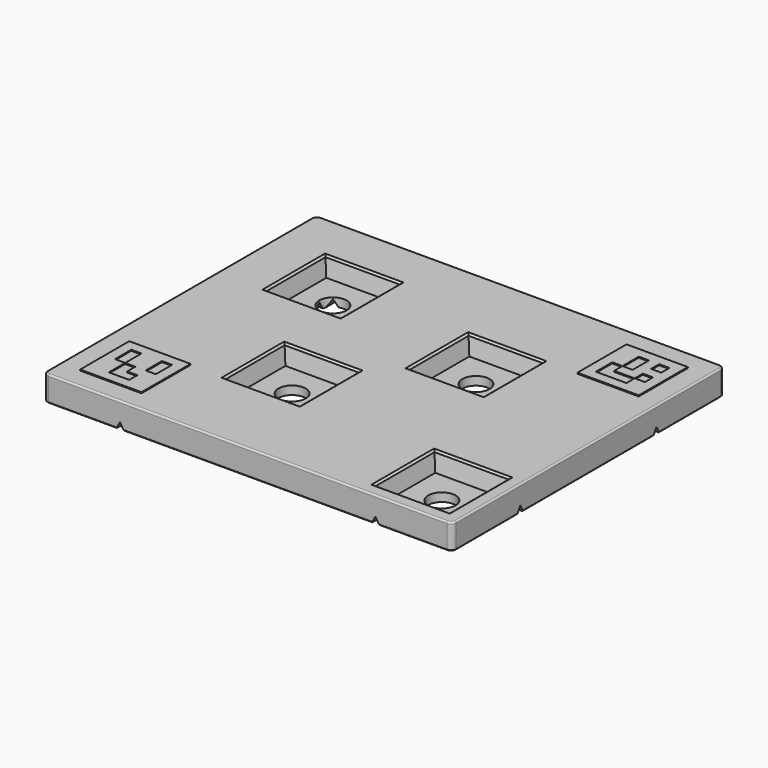
from build123d import *

# Parameters (mm, degrees)
PAD002_DEPTH    = 15
POCKET003_DEPTH = 240.001
POCKET004_DEPTH = 200.001
SKETCH018_W     = 36
SKETCH018_H     = 36
SKETCH018_W_2   = 6
SKETCH018_H_2   = 12
SKETCH018_H_3   = 6
PAD003_DEPTH    = 0.6
SKETCH019_R     = 8
POCKET005_DEPTH = 15.001
SKETCH027_W     = 39
SKETCH027_H     = 39
SKETCH026_W     = 44
SKETCH026_H     = 44
SKETCH020_W     = 44
SKETCH020_H     = 44
SKETCH021_W     = 39
SKETCH021_H     = 39
SKETCH022_W     = 44
SKETCH022_H     = 44
SKETCH023_W     = 39
SKETCH023_H     = 39
SKETCH024_W     = 44
SKETCH024_H     = 44
SKETCH025_W     = 39
SKETCH025_H     = 39
CHAMFER002_SIZE = 1
FILLET001_R     = 1
CHAMFER003_SIZE = 0.6


with BuildPart() as part:
    # Sketch015 → Pad002 (new body)
    with BuildSketch(Plane.XY):
        with BuildLine():
            Line((-27, 170), (207, 170))
            ThreePointArc((210, 167), (209.12132, 169.12132), (207, 170))
            Line((210, 167), (210, -27))
            ThreePointArc((207, -30), (209.12132, -29.12132), (210, -27))
            Line((207, -30), (-27, -30))
            ThreePointArc((-30, -27), (-29.12132, -29.12132), (-27, -30))
            Line((-30, -27), (-30, 167))
            ThreePointArc((-27, 170), (-29.12132, 169.12132), (-30, 167))
        make_face()
    extrude(amount=-PAD002_DEPTH)

    # Sketch016 (on Face3 of Pad002) → Pocket003 (cut, through all)
    with BuildSketch(Plane.YZ.offset(210)):
        Polygon((17.690599, -15), (20, -11), (22.309401, -15), align=None)
        Polygon((117.690599, -15), (120, -11), (122.309401, -15), align=None)
    extrude(amount=-POCKET003_DEPTH, mode=Mode.SUBTRACT)

    # Sketch017 (on Face9 of Pocket003) → Pocket004 (cut, through all)
    with BuildSketch(Plane.XZ.offset(30)):
        Polygon((12.690599, -15), (15, -11), (17.309401, -15), align=None)
        Polygon((162.690599, -15), (165, -11), (167.309401, -15), align=None)
    extrude(amount=-POCKET004_DEPTH, mode=Mode.SUBTRACT)

    # Sketch018 (on Face2 of Pocket004) → Pad003 (join)
    with BuildSketch(Plane.XY):
        Rectangle(SKETCH018_W, SKETCH018_H)
        Polygon((-12, 12), (-12, 0), (-6, 0), (-6, -12), (6, -12), (6, -6), (0, -6), (0, 0), (-6, 0), (-6, 12), align=None, mode=Mode.SUBTRACT)
        with Locations((9, 6)):
            Rectangle(SKETCH018_W_2, SKETCH018_H_2, mode=Mode.SUBTRACT)
        with Locations((180, 140)):
            Rectangle(SKETCH018_W, SKETCH018_H)
        Polygon((168, 128), (186, 128), (186, 134), (192, 134), (192, 140), (186, 140), (186, 134), (174, 134), (174, 140), (180, 140), (180, 152), (174, 152), (174, 140), (168, 140), align=None, mode=Mode.SUBTRACT)
        with Locations((189, 149)):
            Rectangle(SKETCH018_W_2, SKETCH018_H_3, mode=Mode.SUBTRACT)
    extrude(amount=PAD003_DEPTH)

    # Sketch019 (on Face2 of Pad003) → Pocket005 (cut, through all)
    with BuildSketch(Plane.XY):
        with Locations((20, 120)):
            Circle(SKETCH019_R)
        with Locations((120, 100)):
            Circle(SKETCH019_R)
        with Locations((180, 0)):
            Circle(SKETCH019_R)
        with Locations((60, 40)):
            Circle(SKETCH019_R)
    extrude(amount=-POCKET005_DEPTH, mode=Mode.SUBTRACT)

    # Sketch027 (on DatumPlane) → SubtractiveLoft004 section 0
    with BuildSketch(Plane.XY.offset(-10)):
        with Locations((20, 120)):
            Rectangle(SKETCH027_W, SKETCH027_H)
    # Sketch026 (on Face2 of Pocket005) → SubtractiveLoft004 section 1
    with BuildSketch(Plane.XY):
        with Locations((20, 120)):
            Rectangle(SKETCH026_W, SKETCH026_H)
    loft(mode=Mode.SUBTRACT)

    # Sketch020 (on Face2 of Pocket005) → SubtractiveLoft005 section 0
    with BuildSketch(Plane.XY):
        with Locations((60, 40)):
            Rectangle(SKETCH020_W, SKETCH020_H)
    # Sketch021 (on DatumPlane) → SubtractiveLoft005 section 1
    with BuildSketch(Plane.XY.offset(-10)):
        with Locations((60, 40)):
            Rectangle(SKETCH021_W, SKETCH021_H)
    loft(mode=Mode.SUBTRACT)

    # Sketch022 (on Face2 of Pocket005) → SubtractiveLoft006 section 0
    with BuildSketch(Plane.XY):
        with Locations((120, 100)):
            Rectangle(SKETCH022_W, SKETCH022_H)
    # Sketch023 (on DatumPlane) → SubtractiveLoft006 section 1
    with BuildSketch(Plane.XY.offset(-10)):
        with Locations((120, 100)):
            Rectangle(SKETCH023_W, SKETCH023_H)
    loft(mode=Mode.SUBTRACT)

    # Sketch024 (on Face2 of SubtractiveLoft006) → SubtractiveLoft007 section 0
    with BuildSketch(Plane.XY):
        with Locations((180, 0)):
            Rectangle(SKETCH024_W, SKETCH024_H)
    # Sketch025 (on DatumPlane) → SubtractiveLoft007 section 1
    with BuildSketch(Plane.XY.offset(-10)):
        with Locations((180, 0)):
            Rectangle(SKETCH025_W, SKETCH025_H)
    loft(mode=Mode.SUBTRACT)

    # Chamfer002
    chamfer002_edges = [part.edges().sort_by_distance(p)[0] for p in [
        (-2, 120, 0),
        (20, 142, 0),
        (42, 120, 0),
        (20, 98, 0),
        (38, 40, 0),
        (60, 62, 0),
        (60, 18, 0),
        (82, 40, 0),
        (142, 100, 0),
        (120, 122, 0),
        (98, 100, 0),
        (120, 78, 0),
        (180, 22, 0),
        (202, 0, 0),
        (158, 0, 0),
        (180, -22, 0),
    ]]
    chamfer(chamfer002_edges, length=CHAMFER002_SIZE)

    # Fillet001
    fillet001_edges = [part.edges().sort_by_distance(p)[0] for p in [
        (210, 70, 0),
    ]]
    fillet(fillet001_edges, radius=FILLET001_R)

    # Chamfer003
    chamfer003_edges = [part.edges().sort_by_distance(p)[0] for p in [
        (-30, 70, -15),
        (-30, -4.654701, -15),
        (-29.12132, -29.12132, -15),
        (-7.154701, -30, -15),
        (90, -30, -15),
        (187.154701, -30, -15),
        (209.12132, -29.12132, -15),
        (210, -4.654701, -15),
        (210, 70, -15),
        (210, 144.654701, -15),
        (209.12132, 169.12132, -15),
        (187.154701, 170, -15),
        (90, 170, -15),
        (-7.154701, 170, -15),
        (-29.12132, 169.12132, -15),
        (-30, 144.654701, -15),
    ]]
    chamfer(chamfer003_edges, length=CHAMFER003_SIZE)


solid = part.part
